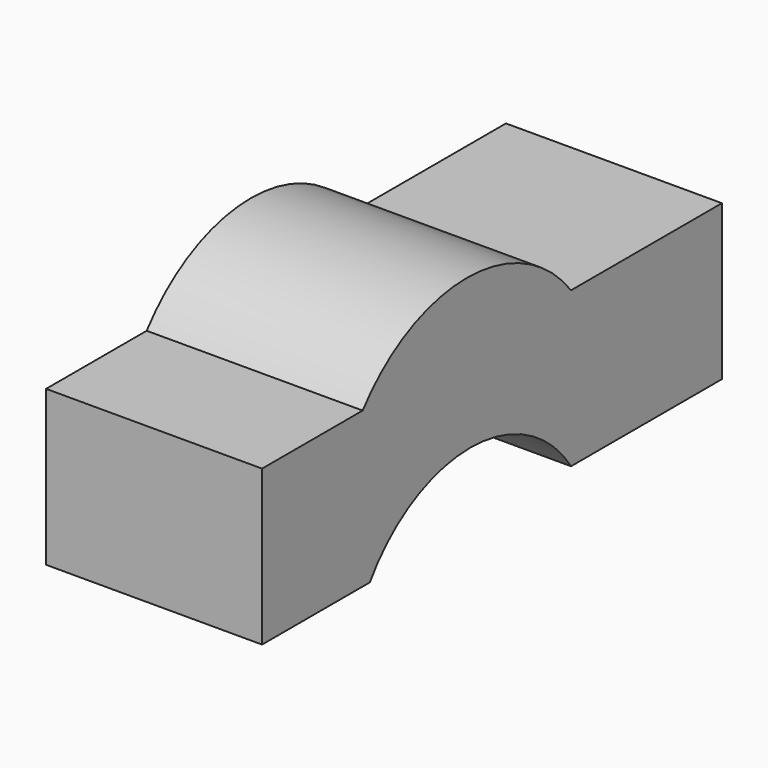
from build123d import *

# Parameters (mm, degrees)
F1_DEPTH = 6.35


with BuildPart() as f1:
    # F0 (on Right) → F1 (new body, symmetric)
    with BuildSketch(Plane.YZ):
        with BuildLine():
            Line((-53.340003, 9.11005), (-53.340003, 0))
            Line((-53.340003, 0), (-45.418218, 0))
            ThreePointArc((-45.418218, 0), (-38.024555, 3.971539), (-30.630892, 0))
            Line((-30.630892, 0), (-19.540396, 0))
            Line((-19.540396, 0), (-19.540396, 9.11005))
            Line((-19.540396, 9.11005), (-30.630892, 9.11005))
            ThreePointArc((-30.630892, 9.11005), (-38.288615, 12.864641), (-45.946337, 9.11005))
            Line((-45.946337, 9.11005), (-53.340003, 9.11005))
        make_face()
    extrude(amount=F1_DEPTH, both=True)


solid = f1.part
